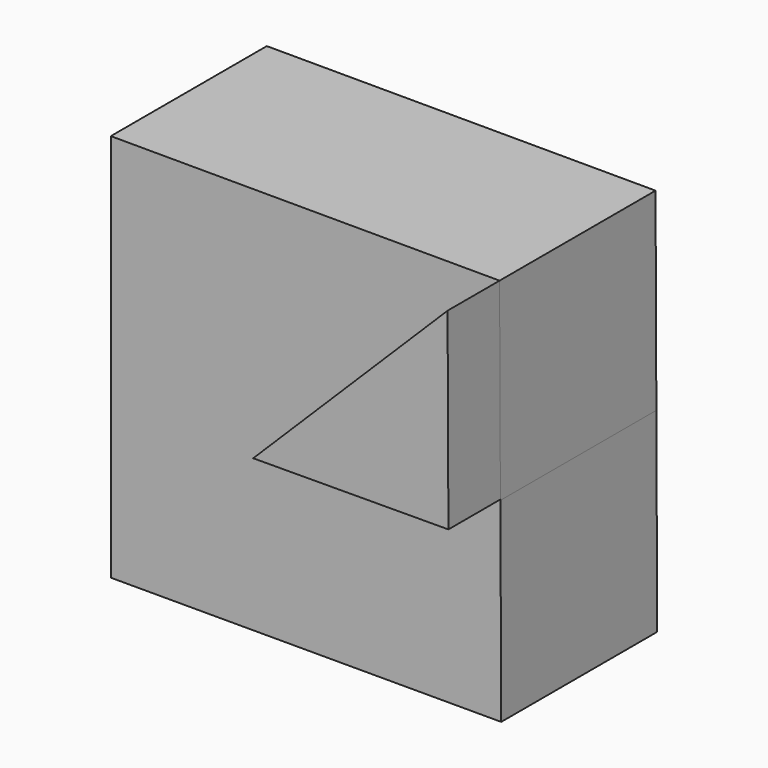
from build123d import *

# Parameters (mm, degrees)
F1_DEPTH = 76.2
F3_DEPTH = 25.4


with BuildPart() as f1:
    # F0 (on Front) → F1 (new body)
    with BuildSketch(Plane.XZ):
        Polygon((-75.97407, 0), (0, 0), (76.292614, 0), (75.974077, 75.49423), (-75.97407, 75.814128), align=None)
        Polygon((76.292614, 0), (0, 0), (-75.97407, 0), (-75.97407, -76.134019), (76.613851, -76.134019), align=None)
    extrude(amount=F1_DEPTH)

    # F2 (on face) → F3 (join)
    with BuildSketch(Plane.XZ.offset(76.2)):
        Polygon((75.974077, 75.49423), (0, 0), (76.291256, 0.3219), align=None)
    extrude(amount=F3_DEPTH)


solid = f1.part
